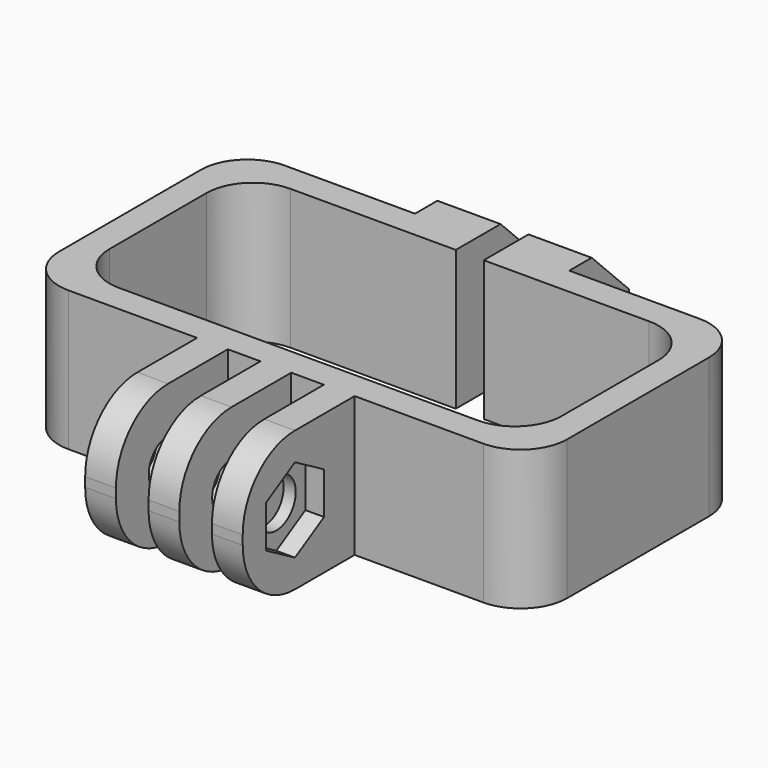
from build123d import *

# Parameters (mm, degrees)
F1_DEPTH = 15
F2_R     = 7
F3_R     = 2.6
F3_R_2   = 2.1
F4_DEPTH = 25
F6_DEPTH = 2
F7_SIZE  = 5


with BuildPart() as f1:
    # F0 (on Top) → F1 (new body)
    with BuildSketch(Plane.XY):
        with BuildLine():
            Line((8.448482, -14.5), (22.25, -14.5))
            ThreePointArc((22.25, -14.5), (25.785534, -13.035534), (27.25, -9.5))
            Line((27.25, -9.5), (27.25, 9.5))
            ThreePointArc((27.25, 9.5), (25.785534, 13.035534), (22.25, 14.5))
            Line((22.25, 14.5), (8.275024, 14.5))
            Line((8.275024, 14.5), (8.275024, 22.5))
            Line((8.275024, 22.5), (1.5, 22.5))
            Line((1.5, 22.5), (1.5, 14.5))
            Line((1.5, 14.5), (1.5, 11.5))
            Line((1.5, 11.5), (19.25, 11.5))
            ThreePointArc((19.25, 11.5), (22.785534, 10.035534), (24.25, 6.5))
            Line((24.25, 6.5), (24.25, -6.5))
            ThreePointArc((24.25, -6.5), (22.785534, -10.035534), (19.25, -11.5))
            Line((19.25, -11.5), (-19.25, -11.5))
            ThreePointArc((-19.25, -11.5), (-22.785534, -10.035534), (-24.25, -6.5))
            Line((-24.25, -6.5), (-24.25, 6.5))
            ThreePointArc((-24.25, 6.5), (-22.785534, 10.035534), (-19.25, 11.5))
            Line((-19.25, 11.5), (-1.5, 11.5))
            Line((-1.5, 11.5), (-1.5, 14.5))
            Line((-1.5, 14.5), (-1.5, 22.5))
            Line((-1.5, 22.5), (-8.275024, 22.5))
            Line((-8.275024, 22.5), (-8.275024, 14.5))
            Line((-8.275024, 14.5), (-22.25, 14.5))
            ThreePointArc((-22.25, 14.5), (-25.785534, 13.035534), (-27.25, 9.5))
            Line((-27.25, 9.5), (-27.25, -9.5))
            ThreePointArc((-27.25, -9.5), (-25.785534, -13.035534), (-22.25, -14.5))
            Line((-22.25, -14.5), (-8.451518, -14.5))
            Line((-8.451518, -14.5), (-8.451518, -29.5))
            Line((-8.451518, -29.5), (-5.151518, -29.5))
            Line((-5.151518, -29.5), (-5.151518, -14.5))
            Line((-5.151518, -14.5), (-1.651518, -14.5))
            Line((-1.651518, -14.5), (-1.651518, -29.5))
            Line((-1.651518, -29.5), (1.648482, -29.5))
            Line((1.648482, -29.5), (1.648482, -14.5))
            Line((1.648482, -14.5), (5.148482, -14.5))
            Line((5.148482, -14.5), (5.148482, -29.5))
            Line((5.148482, -29.5), (8.448482, -29.5))
            Line((8.448482, -29.5), (8.448482, -14.5))
        make_face()
    extrude(amount=F1_DEPTH)

    # F2
    f2_edges = [f1.edges().sort_by_distance(p)[0] for p in [
        (-6.801518, -29.5, 15),
        (-6.801518, -29.5, 0),
        (-0.001518, -29.5, 15),
        (6.798482, -29.5, 15),
        (6.798482, -29.5, 0),
        (-0.001518, -29.5, 0),
    ]]
    fillet(f2_edges, radius=F2_R)

    # F3 (on face) → F4 (cut)
    with BuildSketch(Plane(origin=(-8.451518, 0, 0), x_dir=(0, -1, 0), z_dir=(-1, 0, 0))):
        with Locations((22.5, 7.5)):
            Circle(F3_R)
        with Locations((-18.629974, 7.5)):
            Circle(F3_R_2)
    extrude(amount=-F4_DEPTH, mode=Mode.SUBTRACT)

    # F5 (on face) → F6 (cut)
    with BuildSketch(Plane.YZ.offset(8.448482)):
        Polygon((-18.6, 5.248334), (-18.6, 9.751666), (-22.5, 12.003332), (-26.4, 9.751666), (-26.4, 5.248334), (-22.5, 2.996668), align=None)
    extrude(amount=-F6_DEPTH, mode=Mode.SUBTRACT)

    # F7
    f7_edges = [f1.edges().sort_by_distance(p)[0] for p in [
        (4.887512, 22.5, 15),
        (-4.887512, 22.5, 15),
        (4.887512, 22.5, 0),
        (-4.887512, 22.5, 0),
    ]]
    chamfer(f7_edges, length=F7_SIZE)


solid = f1.part
